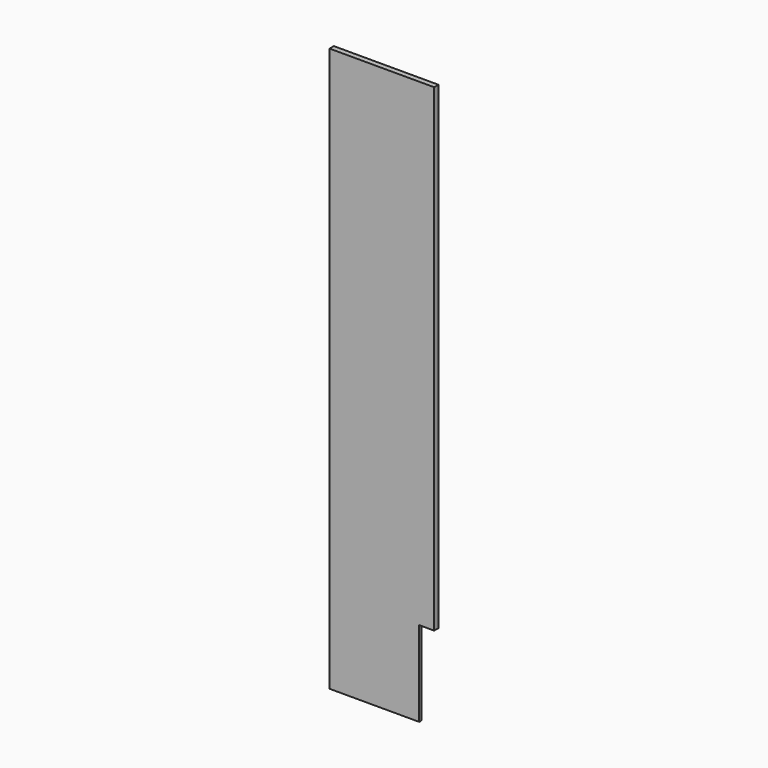
from build123d import *

# Parameters (mm, degrees)
F0_W     = 350
F0_H     = 1885
F1_DEPTH = 18
F2_W     = 50
F2_H     = 285
F3_DEPTH = 18
F4_W     = 18
F4_H     = 1876
F5_DEPTH = 9


with BuildPart() as f1:
    # F0 (on Front) → F1 (new body)
    with BuildSketch(Plane.XZ):
        Rectangle(F0_W, F0_H)
    extrude(amount=F1_DEPTH)

    # F2 (on face) → F3 (cut)
    with BuildSketch(Plane.XZ.offset(18)):
        with Locations((150, -800)):
            Rectangle(F2_W, F2_H)
    extrude(amount=-F3_DEPTH, mode=Mode.SUBTRACT)

    # F4 (on face) → F5 (cut)
    with BuildSketch(Plane(origin=(0, 0, 0), x_dir=(-1, 0, 0), z_dir=(0, 1, 0))):
        with Locations((-116, -4.5)):
            Rectangle(F4_W, F4_H)
    extrude(amount=-F5_DEPTH, mode=Mode.SUBTRACT)


solid = f1.part
